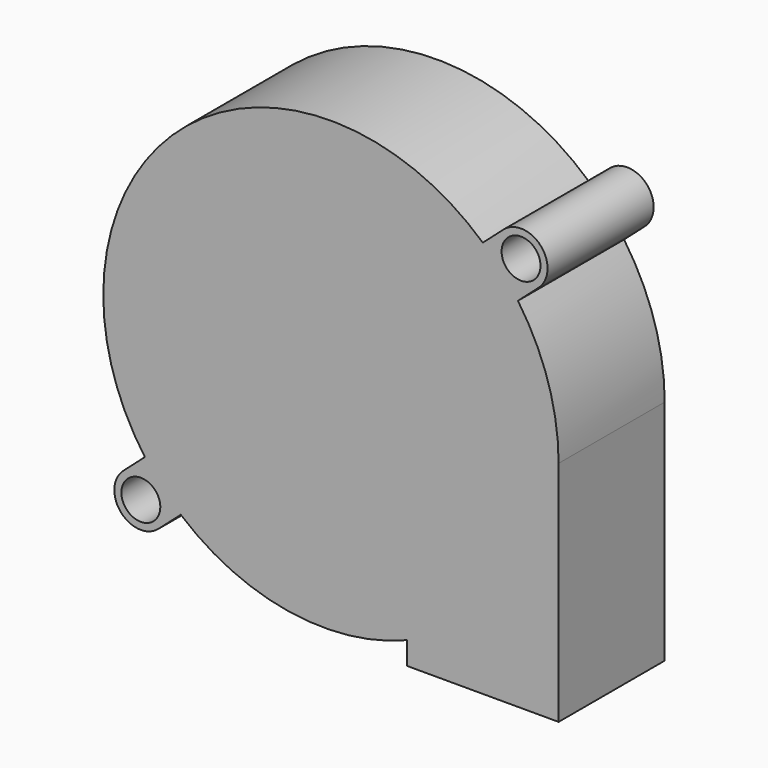
from build123d import *

# Parameters (mm, degrees)
F0_R     = 2.2
F1_DEPTH = 15


with BuildPart() as f1:
    # F0 (on Front) → F1 (new body)
    with BuildSketch(Plane.XZ):
        with BuildLine():
            Line((8.592964, -25.75), (25.75, -25.75))
            Line((25.75, -25.75), (25.75, 0))
            ThreePointArc((25.75, 0), (24.573215, 7.695427), (21.150419, 14.687487))
            Line((21.150419, 14.687487), (23.486593, 16.752013))
            ThreePointArc((23.486593, 16.752013), (23.747987, 20.986593), (19.513407, 21.247987))
            Line((19.513407, 21.247987), (17.177232, 19.183461))
            ThreePointArc((17.177232, 19.183461), (-10.505921, 23.50932), (-25.75, 0))
            ThreePointArc((-25.75, 0), (-24.545164, -7.667474), (-21.046787, -14.595905))
            Line((-21.046787, -14.595905), (-23.486593, -16.752013))
            ThreePointArc((-23.486593, -16.752013), (-23.747987, -20.986593), (-19.513407, -21.247987))
            Line((-19.513407, -21.247987), (-16.983615, -19.012358))
            ThreePointArc((-16.983615, -19.012358), (-4.7787, -24.673256), (8.592964, -23.188554))
            Line((8.592964, -23.188554), (8.592964, -25.75))
        make_face()
        with Locations((-21.5, -19)):
            Circle(F0_R, mode=Mode.SUBTRACT)
        with Locations((21.5, 19)):
            Circle(F0_R, mode=Mode.SUBTRACT)
    extrude(amount=F1_DEPTH)


solid = f1.part
